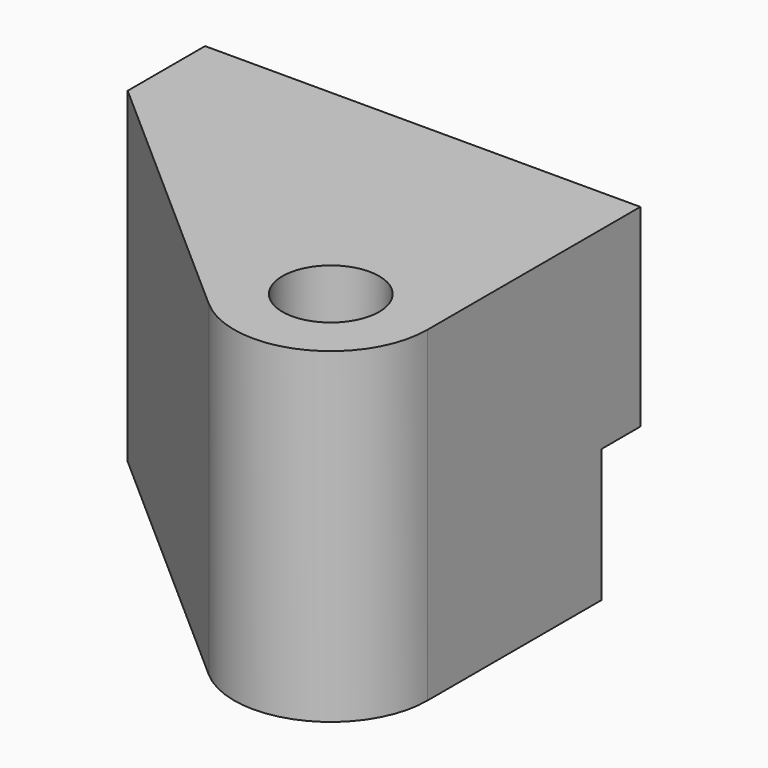
from build123d import *

# Parameters (mm, degrees)
F0_W     = 37
F0_H     = 10
F0_W_2   = 6
F0_R     = 10
F1_DEPTH = 67.5
F2_W     = 10
F2_H     = 27.5
F3_DEPTH = 250


with BuildPart() as f1:
    # F0 (on Top) → F1 (new body)
    with BuildSketch(Plane.XY):
        Polygon((45, 27.5), (45, 37.5), (-45, 37.5), (-45, 27.5), (-8, 27.5), (-2, 27.5), align=None)
        with Locations((-26.5, 22.5)):
            Rectangle(F0_W, F0_H)
        with Locations((-5, 22.5)):
            Rectangle(F0_W_2, F0_H)
        Polygon((45, 17.5), (45, 27.5), (-2, 27.5), (-2, 17.5), (5, 17.5), align=None)
        with BuildLine():
            Line((45, -17.5), (45, 17.5))
            Line((45, 17.5), (5, 17.5))
            Line((5, 17.5), (5, -17.5))
            ThreePointArc((5, -17.5), (25, 2.5), (45, -17.5))
        make_face()
        with BuildLine():
            Line((-8, 17.5), (-45, 17.5))
            Line((-45, 17.5), (11.781288, -32.508853))
            ThreePointArc((11.781288, -32.508853), (6.773999, -25.734858), (5, -17.5))
            Line((5, -17.5), (5, 17.5))
            Line((5, 17.5), (-2, 17.5))
            Line((-2, 17.5), (-8, 17.5))
        make_face()
        with BuildLine():
            ThreePointArc((11.781288, -32.508853), (33.234858, -35.726001), (45, -17.5))
            ThreePointArc((45, -17.5), (25, 2.5), (5, -17.5))
            ThreePointArc((5, -17.5), (6.773999, -25.734858), (11.781288, -32.508853))
        make_face()
        with Locations((25, -17.5)):
            Circle(F0_R, mode=Mode.SUBTRACT)
    extrude(amount=F1_DEPTH)

    # F2 (on face) → F3 (cut)
    with BuildSketch(Plane(origin=(-45, 0, 0), x_dir=(0, -1, 0), z_dir=(-1, 0, 0))):
        with Locations((-32.5, 13.75)):
            Rectangle(F2_W, F2_H)
    extrude(amount=-F3_DEPTH, mode=Mode.SUBTRACT)


solid = f1.part
